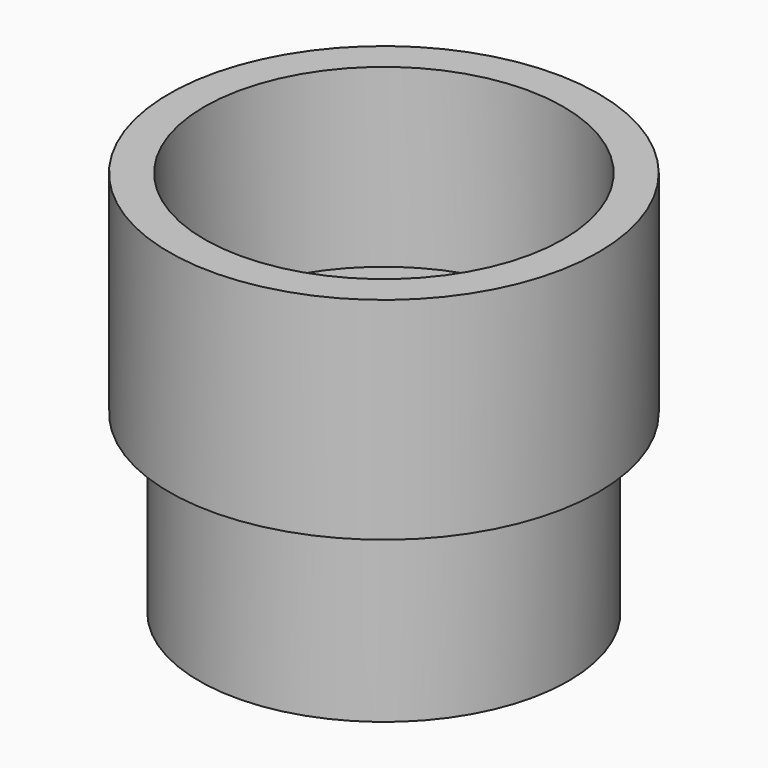
from build123d import *

# Parameters (mm, degrees)
F0_W = 2.54
F0_H = 12.7


with BuildPart() as f1:
    # F0 (on Front) → F1 (revolve)
    with BuildSketch(Plane.XZ):
        with Locations((14.224, 21.59)):
            Rectangle(F0_W, F0_H)
        Polygon((10.795, 15.24), (10.795, 12.7), (13.335, 12.7), (15.494, 12.7), (15.494, 15.24), (12.954, 15.24), align=None)
        with Locations((12.065, 6.35)):
            Rectangle(F0_W, F0_H)
    revolve(axis=Axis((0, 0, 12.892376), (0, 0, 1)))


solid = f1.part
